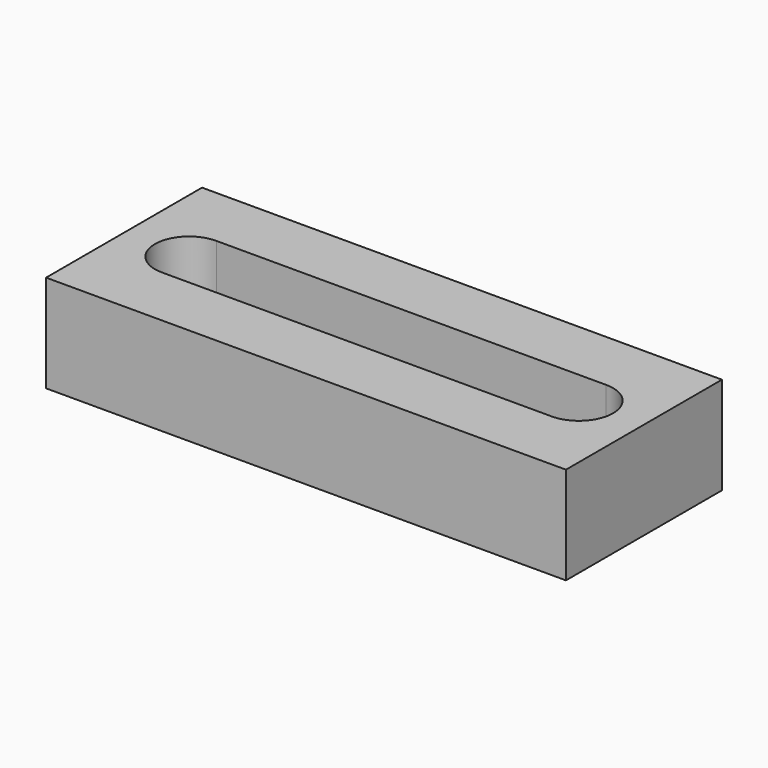
from build123d import *

# Parameters (mm, degrees)
F0_W     = 80
F0_H     = 30
F1_DEPTH = 15


with BuildPart() as f1:
    # F0 (on Top) → F1 (new body)
    with BuildSketch(Plane.XY):
        Rectangle(F0_W, F0_H)
        with BuildLine():
            Line((30, -5.25), (-30, -5.25))
            ThreePointArc((-30, -5.25), (-35.25, 0), (-30, 5.25))
            Line((-30, 5.25), (30, 5.25))
            ThreePointArc((30, 5.25), (35.25, 0), (30, -5.25))
        make_face(mode=Mode.SUBTRACT)
    extrude(amount=F1_DEPTH)


solid = f1.part
